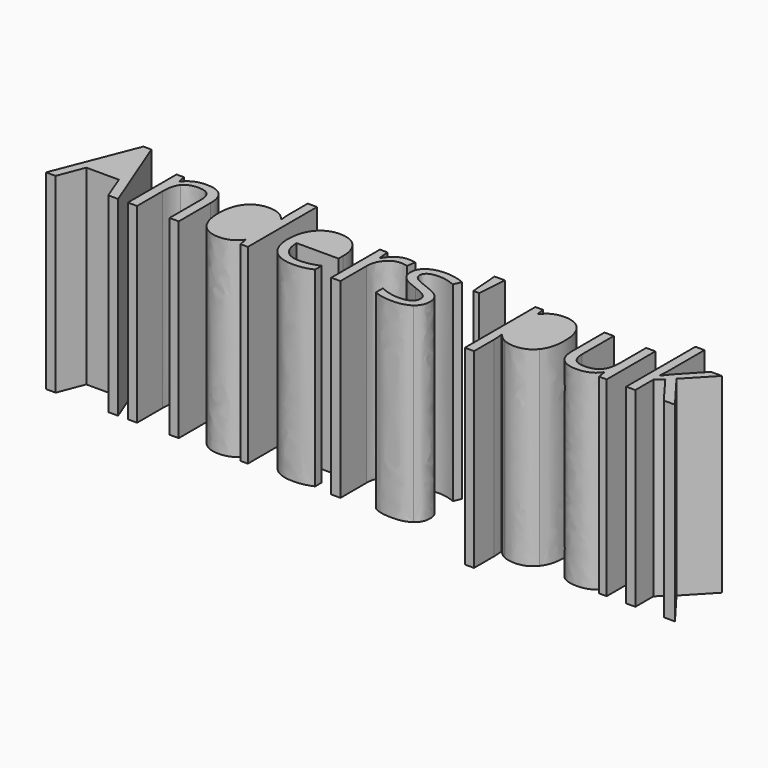
from build123d import *

# Parameters (mm, degrees)
F0_R     = 35
F1_DEPTH = 20
F2_R     = 35
F3_DEPTH = 25.4


with BuildPart() as f1:
    # F0 (on Top) → F1 (new body)
    with BuildSketch(Plane.XY):
        Circle(F0_R)
    extrude(amount=F1_DEPTH)

    # F2 (on face) → F3 (cut)
    with BuildSketch(Plane.XY.offset(20)):
        Circle(F2_R)
        Polygon((-25.1951641656, 0), (-26.2196582669, 0), (-27.2795439826, 2.706527144), (-30.6901779817, 2.706527144), (-31.7370246816, 0), (-32.7391661843, 0), (-29.3751000989, 8.5461435215), (-28.542465802, 8.5461435215), align=None, mode=Mode.SUBTRACT)
        with BuildLine():
            Line((-18.8377125878, 0), (-19.8044624761, 0))
            Line((-19.8044624761, 0), (-19.8044624761, 4.12777987))
            add(Edge.make_bspline(
                [(-19.8044624761, 4.12777987), (-19.8044624761, 4.906395387), (-20.1593099785, 5.2910463541)],
                knots=[0, 0, 0, 1, 1, 1], degree=2))
            add(Edge.make_bspline(
                [(-20.1593099785, 5.2910463541), (-20.5141574808, 5.6756973213), (-21.2722831158, 5.6756973213)],
                knots=[0, 0, 0, 1, 1, 1], degree=2))
            add(Edge.make_bspline(
                [(-21.2722831158, 5.6756973213), (-22.272561902, 5.6756973213), (-22.738241039, 5.1345781641)],
                knots=[0, 0, 0, 1, 1, 1], degree=2))
            add(Edge.make_bspline(
                [(-22.738241039, 5.1345781641), (-23.2039201759, 4.593459007), (-23.2039201759, 3.3473016365)],
                knots=[0, 0, 0, 1, 1, 1], degree=2))
            Line((-23.2039201759, 3.3473016365), (-23.2039201759, 0))
            Line((-23.2039201759, 0), (-24.1706700642, 0))
            Line((-24.1706700642, 0), (-24.1706700642, 6.3798041764))
            Line((-24.1706700642, 6.3798041764), (-23.3846036811, 6.3798041764))
            Line((-23.3846036811, 6.3798041764), (-23.228135491, 5.5061901154))
            Line((-23.228135491, 5.5061901154), (-23.1815675773, 5.5061901154))
            add(Edge.make_bspline(
                [(-23.1815675773, 5.5061901154), (-22.8835329297, 5.977457402), (-22.3480019222, 6.2373063605)],
                knots=[0, 0, 0, 1, 1, 1], degree=2))
            add(Edge.make_bspline(
                [(-22.3480019222, 6.2373063605), (-21.8124709147, 6.4971553189), (-21.1549319733, 6.4971553189)],
                knots=[0, 0, 0, 1, 1, 1], degree=2))
            add(Edge.make_bspline(
                [(-21.1549319733, 6.4971553189), (-20.0019104302, 6.4971553189), (-19.419811509, 5.9411344293)],
                knots=[0, 0, 0, 1, 1, 1], degree=2))
            add(Edge.make_bspline(
                [(-19.419811509, 5.9411344293), (-18.8377125878, 5.3851135398), (-18.8377125878, 4.1613087679)],
                knots=[0, 0, 0, 1, 1, 1], degree=2))
            Line((-18.8377125878, 4.1613087679), (-18.8377125878, 0))
        make_face(mode=Mode.SUBTRACT)
        with BuildLine():
            Line((-12.3833997495, 0), (-12.5119271913, 0.8549868955))
            Line((-12.5119271913, 0.8549868955), (-12.5640832546, 0.8549868955))
            add(Edge.make_bspline(
                [(-12.5640832546, 0.8549868955), (-13.2327984953, -0.1173511425), (-14.5665035436, -0.1173511425)],
                knots=[0, 0, 0, 1, 1, 1], degree=2))
            add(Edge.make_bspline(
                [(-14.5665035436, -0.1173511425), (-15.8182490637, -0.1173511425), (-16.5139736943, 0.7385671112)],
                knots=[0, 0, 0, 1, 1, 1], degree=2))
            add(Edge.make_bspline(
                [(-16.5139736943, 0.7385671112), (-17.209698325, 1.594485365), (-17.209698325, 3.172206281)],
                knots=[0, 0, 0, 1, 1, 1], degree=2))
            add(Edge.make_bspline(
                [(-17.209698325, 3.172206281), (-17.209698325, 4.749927197), (-16.5111796195, 5.6235412579)],
                knots=[0, 0, 0, 1, 1, 1], degree=2))
            add(Edge.make_bspline(
                [(-16.5111796195, 5.6235412579), (-15.8126609141, 6.4971553189), (-14.5665035436, 6.4971553189)],
                knots=[0, 0, 0, 1, 1, 1], degree=2))
            add(Edge.make_bspline(
                [(-14.5665035436, 6.4971553189), (-13.2681901097, 6.4971553189), (-12.5752595539, 5.5527580291)],
                knots=[0, 0, 0, 1, 1, 1], degree=2))
            Line((-12.5752595539, 5.5527580291), (-12.4988881755, 5.5527580291))
            Line((-12.4988881755, 5.5527580291), (-12.5398679395, 6.0128490164))
            Line((-12.5398679395, 6.0128490164), (-12.5640832546, 6.4617637045))
            Line((-12.5640832546, 6.4617637045), (-12.5640832546, 9.0583905722))
            Line((-12.5640832546, 9.0583905722), (-11.5973333663, 9.0583905722))
            Line((-11.5973333663, 9.0583905722), (-11.5973333663, 0))
            Line((-11.5973333663, 0), (-12.3833997495, 0))
        make_face(mode=Mode.SUBTRACT)
        with BuildLine():
            add(Edge.make_bspline(
                [(-5.7502661226, -0.020489882), (-6.2066316768, -0.1173511425), (-6.8529943189, -0.1173511425)],
                knots=[0, 0, 0, 1, 1, 1], degree=2))
            add(Edge.make_bspline(
                [(-6.8529943189, -0.1173511425), (-8.2667961788, -0.1173511425), (-9.0854601015, 0.7450866191)],
                knots=[0, 0, 0, 1, 1, 1], degree=2))
            add(Edge.make_bspline(
                [(-9.0854601015, 0.7450866191), (-9.9041240243, 1.6075243808), (-9.9041240243, 3.1368146666)],
                knots=[0, 0, 0, 1, 1, 1], degree=2))
            add(Edge.make_bspline(
                [(-9.9041240243, 3.1368146666), (-9.9041240243, 4.6810066847), (-9.1441356728, 5.5890810018)],
                knots=[0, 0, 0, 1, 1, 1], degree=2))
            add(Edge.make_bspline(
                [(-9.1441356728, 5.5890810018), (-8.3841473213, 6.4971553189), (-7.1025983364, 6.4971553189)],
                knots=[0, 0, 0, 1, 1, 1], degree=2))
            add(Edge.make_bspline(
                [(-7.1025983364, 6.4971553189), (-5.9048715961, 6.4971553189), (-5.2063528907, 5.7082948609)],
                knots=[0, 0, 0, 1, 1, 1], degree=2))
            add(Edge.make_bspline(
                [(-5.2063528907, 5.7082948609), (-4.5078341852, 4.9194344029), (-4.5078341852, 3.6267091187)],
                knots=[0, 0, 0, 1, 1, 1], degree=2))
            Line((-4.5078341852, 3.6267091187), (-4.5078341852, 3.015738091))
            Line((-4.5078341852, 3.015738091), (-8.9019825216, 3.015738091))
            add(Edge.make_bspline(
                [(-8.9019825216, 3.015738091), (-8.8721790568, 1.8925200126), (-8.3338539745, 1.3104210914)],
                knots=[0, 0, 0, 1, 1, 1], degree=2))
            add(Edge.make_bspline(
                [(-8.3338539745, 1.3104210914), (-7.7955288922, 0.7283221702), (-6.8176027045, 0.7283221702)],
                knots=[0, 0, 0, 1, 1, 1], degree=2))
            add(Edge.make_bspline(
                [(-6.8176027045, 0.7283221702), (-5.7875204536, 0.7283221702), (-4.7816535177, 1.1586096928)],
                knots=[0, 0, 0, 1, 1, 1], degree=2))
            Line((-4.7816535177, 1.1586096928), (-4.7816535177, 0.2961719311))
            add(Edge.make_bspline(
                [(-4.7816535177, 0.2961719311), (-5.2939005684, 0.0763713785), (-5.7502661226, -0.020489882)],
                knots=[0, 0, 0, 1, 1, 1], degree=2))
        make_face(mode=Mode.SUBTRACT)
        with BuildLine():
            add(Edge.make_bspline(
                [(-1.0487695559, 6.1590722654), (-0.5476988045, 6.4971553189), (0.0520959239, 6.4971553189)],
                knots=[0, 0, 0, 1, 1, 1], degree=2))
            add(Edge.make_bspline(
                [(0.0520959239, 6.4971553189), (0.4767952968, 6.4971553189), (0.813946992, 6.4263720901)],
                knots=[0, 0, 0, 1, 1, 1], degree=2))
            Line((0.813946992, 6.4263720901), (0.6798314005, 5.5304054305))
            add(Edge.make_bspline(
                [(0.6798314005, 5.5304054305), (0.2849354924, 5.6179531083), (-0.0186873049, 5.6179531083)],
                knots=[0, 0, 0, 1, 1, 1], degree=2))
            add(Edge.make_bspline(
                [(-0.0186873049, 5.6179531083), (-0.7935773888, 5.6179531083), (-1.3430787704, 4.9892862734)],
                knots=[0, 0, 0, 1, 1, 1], degree=2))
            add(Edge.make_bspline(
                [(-1.3430787704, 4.9892862734), (-1.892580152, 4.3606194385), (-1.892580152, 3.4236730149)],
                knots=[0, 0, 0, 1, 1, 1], degree=2))
            Line((-1.892580152, 3.4236730149), (-1.892580152, 0))
            Line((-1.892580152, 0), (-2.8593300404, 0))
            Line((-2.8593300404, 0), (-2.8593300404, 6.3798041764))
            Line((-2.8593300404, 6.3798041764), (-2.0620873579, 6.3798041764))
            Line((-2.0620873579, 6.3798041764), (-1.950324365, 5.198841885))
            Line((-1.950324365, 5.198841885), (-1.9037564513, 5.198841885))
            add(Edge.make_bspline(
                [(-1.9037564513, 5.198841885), (-1.5498403072, 5.820989212), (-1.0487695559, 6.1590722654)],
                knots=[0, 0, 0, 1, 1, 1], degree=2))
        make_face(mode=Mode.SUBTRACT)
        with BuildLine():
            add(Edge.make_bspline(
                [(5.7240678121, 2.7940748218), (6.1226891533, 2.3749635985), (6.1226891533, 1.7397772557)],
                knots=[0, 0, 0, 1, 1, 1], degree=2))
            add(Edge.make_bspline(
                [(6.1226891533, 1.7397772557), (6.1226891533, 0.8493987458), (5.4595620623, 0.3660238017)],
                knots=[0, 0, 0, 1, 1, 1], degree=2))
            add(Edge.make_bspline(
                [(5.4595620623, 0.3660238017), (4.7964349713, -0.1173511425), (3.5968455144, -0.1173511425)],
                knots=[0, 0, 0, 1, 1, 1], degree=2))
            add(Edge.make_bspline(
                [(3.5968455144, -0.1173511425), (2.3283355454, -0.1173511425), (1.6186405406, 0.2849956318)],
                knots=[0, 0, 0, 1, 1, 1], degree=2))
            Line((1.6186405406, 0.2849956318), (1.6186405406, 1.1809622913))
            add(Edge.make_bspline(
                [(1.6186405406, 1.1809622913), (2.078731528, 0.9481227229), (2.6049489527, 0.8149384897)],
                knots=[0, 0, 0, 1, 1, 1], degree=2))
            add(Edge.make_bspline(
                [(2.6049489527, 0.8149384897), (3.1311663775, 0.6817542565), (3.6210608296, 0.6817542565)],
                knots=[0, 0, 0, 1, 1, 1], degree=2))
            add(Edge.make_bspline(
                [(3.6210608296, 0.6817542565), (4.377323748, 0.6817542565), (4.7843273137, 0.9229760495)],
                knots=[0, 0, 0, 1, 1, 1], degree=2))
            add(Edge.make_bspline(
                [(4.7843273137, 0.9229760495), (5.1913308794, 1.1641978424), (5.1913308794, 1.6596804441)],
                knots=[0, 0, 0, 1, 1, 1], degree=2))
            add(Edge.make_bspline(
                [(5.1913308794, 1.6596804441), (5.1913308794, 2.0322237537), (4.8690809166, 2.2967295035)],
                knots=[0, 0, 0, 1, 1, 1], degree=2))
            add(Edge.make_bspline(
                [(4.8690809166, 2.2967295035), (4.5468309538, 2.5612352533), (3.6080218137, 2.9226022636)],
                knots=[0, 0, 0, 1, 1, 1], degree=2))
            add(Edge.make_bspline(
                [(3.6080218137, 2.9226022636), (2.7176433039, 3.2541658091), (2.3423059195, 3.5019071099)],
                knots=[0, 0, 0, 1, 1, 1], degree=2))
            add(Edge.make_bspline(
                [(2.3423059195, 3.5019071099), (1.9669685351, 3.7496484108), (1.7834909551, 4.0635161491)],
                knots=[0, 0, 0, 1, 1, 1], degree=2))
            add(Edge.make_bspline(
                [(1.7834909551, 4.0635161491), (1.6000133752, 4.3773838874), (1.6000133752, 4.8132595596)],
                knots=[0, 0, 0, 1, 1, 1], degree=2))
            add(Edge.make_bspline(
                [(1.6000133752, 4.8132595596), (1.6000133752, 5.5937377932), (2.235199718, 6.045446556)],
                knots=[0, 0, 0, 1, 1, 1], degree=2))
            add(Edge.make_bspline(
                [(2.235199718, 6.045446556), (2.8703860608, 6.4971553189), (3.9749769737, 6.4971553189)],
                knots=[0, 0, 0, 1, 1, 1], degree=2))
            add(Edge.make_bspline(
                [(3.9749769737, 6.4971553189), (5.0050592246, 6.4971553189), (5.9904362784, 6.0780440956)],
                knots=[0, 0, 0, 1, 1, 1], degree=2))
            Line((5.9904362784, 6.0780440956), (5.6458337171, 5.2919777124))
            add(Edge.make_bspline(
                [(5.6458337171, 5.2919777124), (4.6865346949, 5.6868736206), (3.9060564614, 5.6868736206)],
                knots=[0, 0, 0, 1, 1, 1], degree=2))
            add(Edge.make_bspline(
                [(3.9060564614, 5.6868736206), (3.2187140552, 5.6868736206), (2.8694547025, 5.4717298593)],
                knots=[0, 0, 0, 1, 1, 1], degree=2))
            add(Edge.make_bspline(
                [(2.8694547025, 5.4717298593), (2.5201953498, 5.256586098), (2.5201953498, 4.8784546388)],
                knots=[0, 0, 0, 1, 1, 1], degree=2))
            add(Edge.make_bspline(
                [(2.5201953498, 4.8784546388), (2.5201953498, 4.6213997552), (2.6515168664, 4.4416476083)],
                knots=[0, 0, 0, 1, 1, 1], degree=2))
            add(Edge.make_bspline(
                [(2.6515168664, 4.4416476083), (2.782838383, 4.2618954615), (3.0734221645, 4.0989077635)],
                knots=[0, 0, 0, 1, 1, 1], degree=2))
            add(Edge.make_bspline(
                [(3.0734221645, 4.0989077635), (3.364005946, 3.9359200656), (4.1910520932, 3.6267091187)],
                knots=[0, 0, 0, 1, 1, 1], degree=2))
            add(Edge.make_bspline(
                [(4.1910520932, 3.6267091187), (5.3254464708, 3.213186045), (5.7240678121, 2.7940748218)],
                knots=[0, 0, 0, 1, 1, 1], degree=2))
        make_face(mode=Mode.SUBTRACT)
        Polygon((7.4452179023, 8.5107519071), (8.5274562166, 8.5107519071), (8.2946166481, 5.4372696032), (7.6836456204, 5.4372696032), align=None, mode=Mode.SUBTRACT)
        with BuildLine():
            add(Edge.make_bspline(
                [(18.3467664985, 0.7534688436), (17.6454537183, -0.1173511425), (16.3992963478, -0.1173511425)],
                knots=[0, 0, 0, 1, 1, 1], degree=2))
            add(Edge.make_bspline(
                [(16.3992963478, -0.1173511425), (15.7752863042, -0.1173511425), (15.2602451788, 0.1126943511)],
                knots=[0, 0, 0, 1, 1, 1], degree=2))
            add(Edge.make_bspline(
                [(15.2602451788, 0.1126943511), (14.7452040533, 0.3427398448), (14.3968760588, 0.8214579976)],
                knots=[0, 0, 0, 1, 1, 1], degree=2))
            Line((14.3968760588, 0.8214579976), (14.32609283, 0.8214579976))
            add(Edge.make_bspline(
                [(14.32609283, 0.8214579976), (14.3968760588, 0.2626430332), (14.3968760588, -0.2384277181)],
                knots=[0, 0, 0, 1, 1, 1], degree=2))
            Line((14.3968760588, -0.2384277181), (14.3968760588, -2.8648580506))
            Line((14.3968760588, -2.8648580506), (13.4301261705, -2.8648580506))
            Line((13.4301261705, -2.8648580506), (13.4301261705, 6.3798041764))
            Line((13.4301261705, 6.3798041764), (14.2161925537, 6.3798041764))
            Line((14.2161925537, 6.3798041764), (14.3503081451, 5.5061901154))
            Line((14.3503081451, 5.5061901154), (14.3968760588, 5.5061901154))
            add(Edge.make_bspline(
                [(14.3968760588, 5.5061901154), (14.7694193684, 6.0314761819), (15.2639706119, 6.2643157504)],
                knots=[0, 0, 0, 1, 1, 1], degree=2))
            add(Edge.make_bspline(
                [(15.2639706119, 6.2643157504), (15.7585218553, 6.4971553189), (16.3992963478, 6.4971553189)],
                knots=[0, 0, 0, 1, 1, 1], degree=2))
            add(Edge.make_bspline(
                [(16.3992963478, 6.4971553189), (17.6678063169, 6.4971553189), (18.3579427978, 5.6291294076)],
                knots=[0, 0, 0, 1, 1, 1], degree=2))
            add(Edge.make_bspline(
                [(18.3579427978, 5.6291294076), (19.0480792788, 4.7611034963), (19.0480792788, 3.1964215961)],
                knots=[0, 0, 0, 1, 1, 1], degree=2))
            add(Edge.make_bspline(
                [(19.0480792788, 3.1964215961), (19.0480792788, 1.6242888297), (18.3467664985, 0.7534688436)],
                knots=[0, 0, 0, 1, 1, 1], degree=2))
        make_face(mode=Mode.SUBTRACT)
        with BuildLine():
            Line((20.6667799589, 6.3798041764), (21.6447061465, 6.3798041764))
            Line((21.6447061465, 6.3798041764), (21.6447061465, 2.2408480071))
            add(Edge.make_bspline(
                [(21.6447061465, 2.2408480071), (21.6447061465, 1.4603697735), (21.9995536489, 1.0766501647)],
                knots=[0, 0, 0, 1, 1, 1], degree=2))
            add(Edge.make_bspline(
                [(21.9995536489, 1.0766501647), (22.3544011512, 0.6929305558), (23.1106640697, 0.6929305558)],
                knots=[0, 0, 0, 1, 1, 1], degree=2))
            add(Edge.make_bspline(
                [(23.1106640697, 0.6929305558), (24.1128055724, 0.6929305558), (24.5747592763, 1.2396378626)],
                knots=[0, 0, 0, 1, 1, 1], degree=2))
            add(Edge.make_bspline(
                [(24.5747592763, 1.2396378626), (25.0367129801, 1.7863451694), (25.0367129801, 3.0269143902)],
                knots=[0, 0, 0, 1, 1, 1], degree=2))
            Line((25.0367129801, 3.0269143902), (25.0367129801, 6.3798041764))
            Line((25.0367129801, 6.3798041764), (26.0034628685, 6.3798041764))
            Line((26.0034628685, 6.3798041764), (26.0034628685, 0))
            Line((26.0034628685, 0), (25.206220186, 0))
            Line((25.206220186, 0), (25.0665164449, 0.8549868955))
            Line((25.0665164449, 0.8549868955), (25.0143603815, 0.8549868955))
            add(Edge.make_bspline(
                [(25.0143603815, 0.8549868955), (24.7181884504, 0.3837196089), (24.1910396674, 0.1331842332)],
                knots=[0, 0, 0, 1, 1, 1], degree=2))
            add(Edge.make_bspline(
                [(24.1910396674, 0.1331842332), (23.6638908844, -0.1173511425), (22.9877247775, -0.1173511425)],
                knots=[0, 0, 0, 1, 1, 1], degree=2))
            add(Edge.make_bspline(
                [(22.9877247775, -0.1173511425), (21.8235269351, -0.1173511425), (21.245153447, 0.4358756722)],
                knots=[0, 0, 0, 1, 1, 1], degree=2))
            add(Edge.make_bspline(
                [(21.245153447, 0.4358756722), (20.6667799589, 0.9891024869), (20.6667799589, 2.2054563926)],
                knots=[0, 0, 0, 1, 1, 1], degree=2))
            Line((20.6667799589, 2.2054563926), (20.6667799589, 6.3798041764))
        make_face(mode=Mode.SUBTRACT)
        with BuildLine():
            Line((28.9614567464, 3.2653421084), (29.0080246601, 3.2653421084))
            add(Edge.make_bspline(
                [(29.0080246601, 3.2653421084), (29.2576286775, 3.621120969), (29.7698757282, 4.1967003823)],
                knots=[0, 0, 0, 1, 1, 1], degree=2))
            Line((29.7698757282, 4.1967003823), (31.8300402301, 6.3798041764))
            Line((31.8300402301, 6.3798041764), (32.9774736236, 6.3798041764))
            Line((32.9774736236, 6.3798041764), (30.3920230552, 3.6621007331))
            Line((30.3920230552, 3.6621007331), (33.1581571287, 0))
            Line((33.1581571287, 0), (31.9883711367, 0))
            Line((31.9883711367, 0), (29.7344841138, 3.015738091))
            Line((29.7344841138, 3.015738091), (29.0080246601, 2.3861398978))
            Line((29.0080246601, 2.3861398978), (29.0080246601, 0))
            Line((29.0080246601, 0), (28.0524510711, 0))
            Line((28.0524510711, 0), (28.0524510711, 9.0583905722))
            Line((28.0524510711, 9.0583905722), (29.0080246601, 9.0583905722))
            Line((29.0080246601, 9.0583905722), (29.0080246601, 4.2544445953))
            add(Edge.make_bspline(
                [(29.0080246601, 4.2544445953), (29.0080246601, 3.9359200656), (28.9614567464, 3.2653421084)],
                knots=[0, 0, 0, 1, 1, 1], degree=2))
        make_face(mode=Mode.SUBTRACT)
    extrude(amount=-F3_DEPTH, mode=Mode.SUBTRACT)


solid = f1.part
